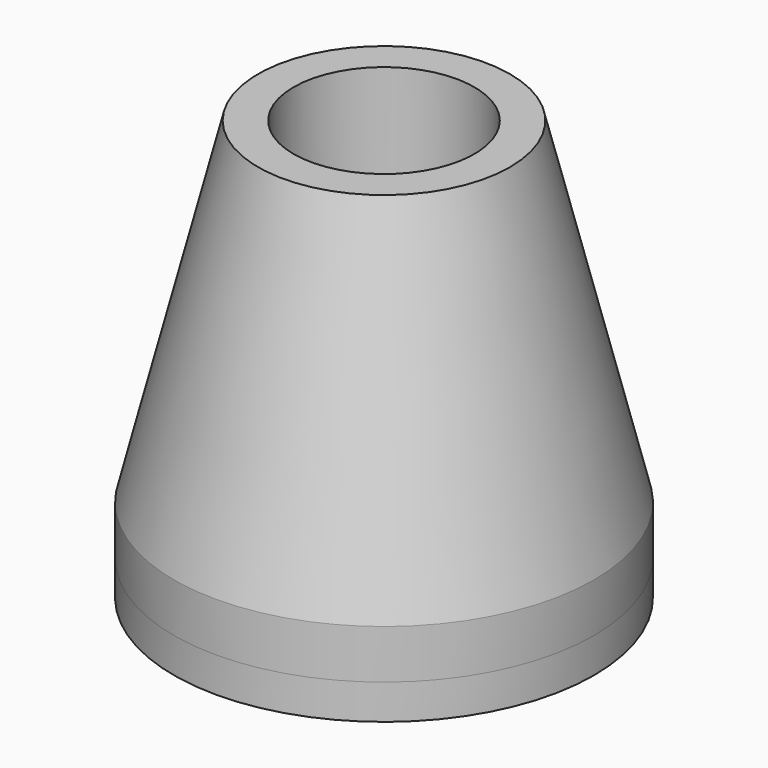
from build123d import *

# Parameters (mm, degrees)
F0_R     = 9.525
F1_DEPTH = 17.4625
F2_START = -17.4625
F2_DEPTH = 1.5875
F3_D     = 8.2042
F3_DEPTH = 9.525
F3_TIP   = 2.4647903453
F4_SIZE2 = 3.81
F4_SIZE  = 15.24


with BuildPart() as f1:
    # F0 (on Top) → F1 (new body)
    with BuildSketch(Plane.XY):
        Circle(F0_R)
    extrude(amount=-F1_DEPTH)

    # F3
    with Locations(Plane.XY):
        with Locations((0, 0)):
            Hole(F3_D / 2, depth=F3_DEPTH)
            with Locations((0, 0, -(F3_DEPTH + F3_TIP / 2))):  # 118° drill point
                Cone(0, F3_D / 2, F3_TIP, mode=Mode.SUBTRACT)

    # F4
    f4_edges = [f1.edges().sort_by_distance(p)[0] for p in [
        (-9.525, 0, 0),
    ]]
    f4_side = f1.faces().sort_by_distance((-9.525, 0, -8.73125))[0]
    chamfer(f4_edges, length=F4_SIZE, length2=F4_SIZE2, reference=f4_side)


with BuildPart() as f2:
    # F0 (on Top) → F2 (new body)
    with BuildSketch(Plane.XY.offset(F2_START)):
        Circle(F0_R)
    extrude(amount=-F2_DEPTH)


solid = Compound([f1.part, f2.part])
